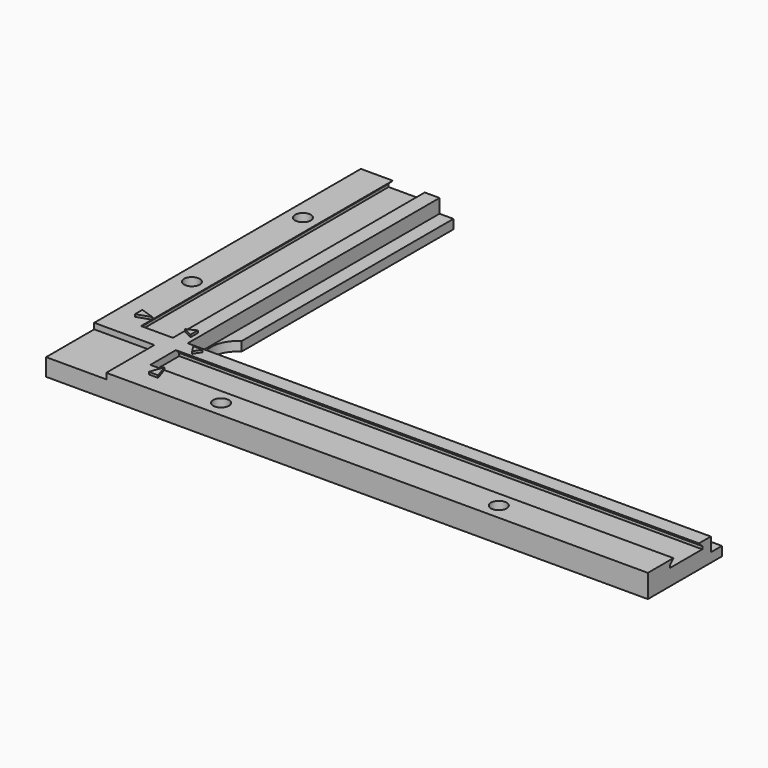
from build123d import *

# Parameters (mm, degrees)
PAD_DEPTH       = 5
POCKET_DEPTH    = 113
SKETCH002_W     = 4
SKETCH002_H     = 4
POCKET001_DEPTH = 113
SKETCH003_W     = 3.38924
SKETCH003_H     = 4
POCKET002_DEPTH = 68
POCKET003_DEPTH = 68
SKETCH005_W     = 14
SKETCH005_H     = 14
POCKET004_DEPTH = 1.25
PAD001_DEPTH    = 0.5
SKETCH007_R     = 5.673714
POCKET005_DEPTH = 5
SKETCH008_R     = 1.7
POCKET006_DEPTH = 5.501


with BuildPart() as part:
    # Sketch → Pad (new body)
    with BuildSketch(Plane.XY):
        Polygon((0, 0), (0, 85), (20, 85), (20, 20), (130, 20), (130, 0), align=None)
    extrude(amount=PAD_DEPTH)

    # Sketch001 → Pocket (cut)
    with BuildSketch(Plane.YZ.offset(130)):
        Polygon((6, 3.5), (6, 4.1), (8.557521, 6.657521), (12.142479, 6.657521), (14.7, 4.1), (14.7, 3.5), align=None)
    extrude(amount=-POCKET_DEPTH, mode=Mode.SUBTRACT)

    # Sketch002 → Pocket001 (cut)
    with BuildSketch(Plane.YZ.offset(130)):
        with Locations((19, 4)):
            Rectangle(SKETCH002_W, SKETCH002_H)
    extrude(amount=-POCKET001_DEPTH, mode=Mode.SUBTRACT)

    # Sketch003 → Pocket002 (cut)
    with BuildSketch(Plane(origin=(0, 85, 0), x_dir=(-1, 0, 0), z_dir=(0, 1, 0))):
        with Locations((-18.69462, 4)):
            Rectangle(SKETCH003_W, SKETCH003_H)
    extrude(amount=-POCKET002_DEPTH, mode=Mode.SUBTRACT)

    # Sketch004 → Pocket003 (cut)
    with BuildSketch(Plane(origin=(0, 85, 0), x_dir=(-1, 0, 0), z_dir=(0, 1, 0))):
        Polygon((-14.7, 3.5), (-14.7, 4.1), (-13.019806, 5.780194), (-7.680194, 5.780194), (-6, 4.1), (-6, 3.5), align=None)
    extrude(amount=-POCKET003_DEPTH, mode=Mode.SUBTRACT)

    # Sketch005 → Pocket004 (cut)
    with BuildSketch(Plane.XY.offset(5)):
        with Locations((6, 6)):
            Rectangle(SKETCH005_W, SKETCH005_H)
    extrude(amount=-POCKET004_DEPTH, mode=Mode.SUBTRACT)

    # Sketch006 → Pad001 (new body)
    with BuildSketch(Plane.XY.offset(5)):
        Polygon((20, 7), (19, 4), (21, 4), align=None)
        Polygon((20, 14.44055), (19, 16), (21, 16), align=None)
        Polygon((14, 20), (16, 19), (16, 21), align=None)
        Polygon((7, 20), (4, 21), (4, 19), align=None)
    extrude(amount=PAD001_DEPTH)

    # Sketch007 → Pocket005 (cut)
    with BuildSketch(Plane(origin=(0, 0, 0), x_dir=(1, 0, 0), z_dir=(0, 0, -1))):
        with Locations((23, -23)):
            Circle(SKETCH007_R)
    extrude(amount=-POCKET005_DEPTH, mode=Mode.SUBTRACT)

    # Sketch008 → Pocket006 (cut, through all)
    with BuildSketch(Plane(origin=(0, 0, 0), x_dir=(1, 0, 0), z_dir=(0, 0, -1))):
        with Locations((35, -3.5)):
            Circle(SKETCH008_R)
        with Locations((95, -3.5)):
            Circle(SKETCH008_R)
        with Locations((3.5, -35)):
            Circle(SKETCH008_R)
        with Locations((3.5, -65)):
            Circle(SKETCH008_R)
    extrude(amount=-POCKET006_DEPTH, mode=Mode.SUBTRACT)


solid = part.part
